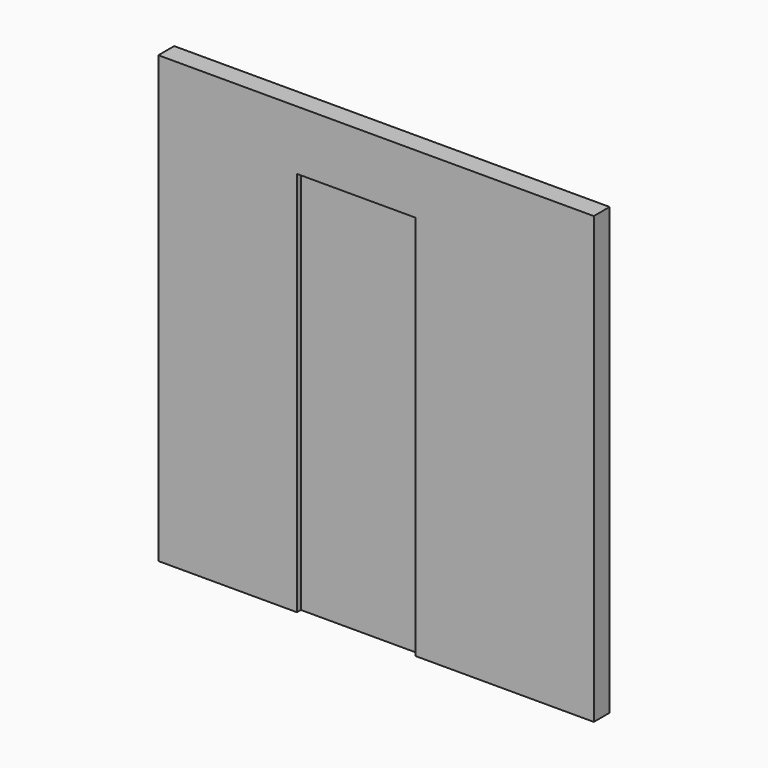
from build123d import *

# Parameters (mm, degrees)
F0_W     = 2235.2
F0_H     = 2286
F1_DEPTH = 101.6
F2_W     = 609.6
F2_H     = 1981.2
F3_DEPTH = 25.4
F4_W     = 609.6
F4_H     = 1981.2
F5_DEPTH = 25.4


with BuildPart() as f1:
    # F0 (on Front) → F1 (new body)
    with BuildSketch(Plane.XZ):
        with Locations((-1117.6, 1143)):
            Rectangle(F0_W, F0_H)
    extrude(amount=F1_DEPTH)

    # F2 (on face) → F3 (cut)
    with BuildSketch(Plane.XZ.offset(101.6)):
        with Locations((-1219.2, 990.6)):
            Rectangle(F2_W, F2_H)
    extrude(amount=-F3_DEPTH, mode=Mode.SUBTRACT)

    # F4 (on face) → F5 (cut)
    with BuildSketch(Plane(origin=(0, 0, 0), x_dir=(-1, 0, 0), z_dir=(0, 1, 0))):
        with Locations((1219.2, 990.6)):
            Rectangle(F4_W, F4_H)
    extrude(amount=-F5_DEPTH, mode=Mode.SUBTRACT)


solid = f1.part
